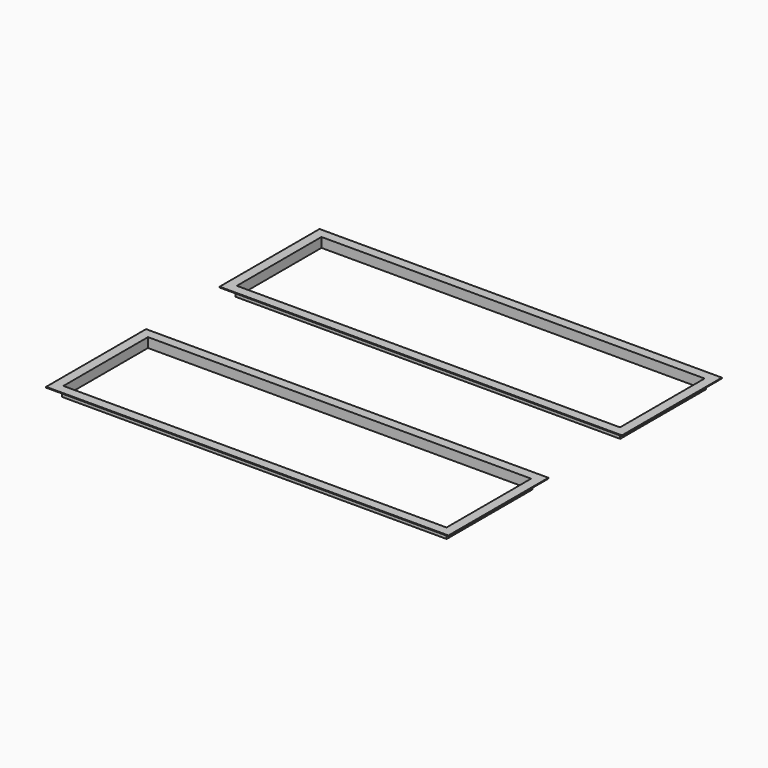
from build123d import *

# Parameters (mm, degrees)
F0_W     = 2093
F0_H     = 650
F0_W_2   = 1993
F0_H_2   = 550
F1_DEPTH = 50
F2_W     = 46
F2_H     = 46
F3_DEPTH = 3000
F4_W     = 46
F4_H     = 46
F5_DEPTH = 3000


with BuildPart() as f1:
    # F0 (on Top) → F1 (new body)
    with BuildSketch(Plane.XY):
        with Locations((-996.5, 275)):
            Rectangle(F0_W, F0_H)
        with Locations((-996.5, 275)):
            Rectangle(F0_W_2, F0_H_2, mode=Mode.SUBTRACT)
        with Locations((-996.5, 1403)):
            Rectangle(F0_W, F0_H)
        with Locations((-996.5, 1403)):
            Rectangle(F0_W_2, F0_H_2, mode=Mode.SUBTRACT)
    extrude(amount=F1_DEPTH)

    # F2 (on face) → F3 (cut)
    with BuildSketch(Plane(origin=(-2043, 0, 0), x_dir=(0, -1, 0), z_dir=(-1, 0, 0))):
        with Locations((-1705, 23)):
            Rectangle(F2_W, F2_H)
        with Locations((-1101, 23)):
            Rectangle(F2_W, F2_H)
        with Locations((-577, 23)):
            Rectangle(F2_W, F2_H)
        with Locations((27, 23)):
            Rectangle(F2_W, F2_H)
    extrude(amount=-F3_DEPTH, mode=Mode.SUBTRACT)

    # F4 (on face) → F5 (cut)
    with BuildSketch(Plane(origin=(0, 1682, 0), x_dir=(-1, 0, 0), z_dir=(0, 1, 0))):
        with Locations((-27, 23)):
            Rectangle(F4_W, F4_H)
        with Locations((2020, 23)):
            Rectangle(F4_W, F4_H)
    extrude(amount=-F5_DEPTH, mode=Mode.SUBTRACT)


solid = f1.part
